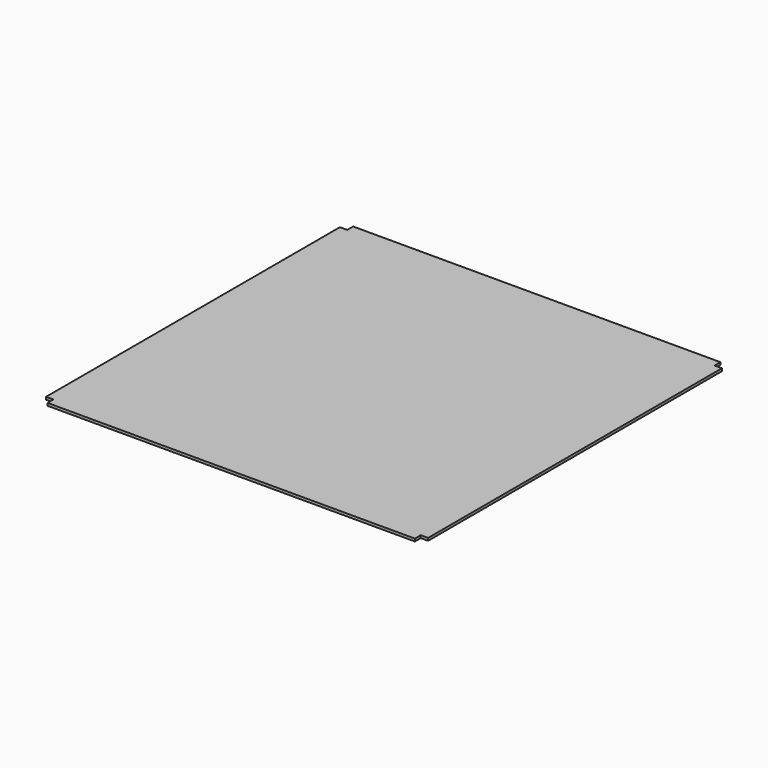
from build123d import *

# Parameters (mm, degrees)
F0_W      = 883.52695
F0_H      = 6
F1_DEPTH  = 883.52695
F2_W      = 17
F2_H      = 17
F3_DEPTH  = 6
F4_W      = 17
F4_H      = 17
F5_DEPTH  = 6
F6_W      = 17
F6_H      = 17
F7_DEPTH  = 6
F8_W      = 17
F8_H      = 17
F9_DEPTH  = 6
F10_R     = 3
F11_DEPTH = 4


with BuildPart() as f1:
    # F0 (on Front) → F1 (new body)
    with BuildSketch(Plane.XZ):
        with Locations((441.763475, 3)):
            Rectangle(F0_W, F0_H)
    extrude(amount=F1_DEPTH)

    # F2 (on face) → F3 (cut)
    with BuildSketch(Plane.XY.offset(6)):
        with Locations((8.5, -8.5)):
            Rectangle(F2_W, F2_H)
    extrude(amount=-F3_DEPTH, mode=Mode.SUBTRACT)

    # F4 (on face) → F5 (cut)
    with BuildSketch(Plane.XY.offset(6)):
        with Locations((875.02695, -8.5)):
            Rectangle(F4_W, F4_H)
    extrude(amount=-F5_DEPTH, mode=Mode.SUBTRACT)

    # F6 (on face) → F7 (cut)
    with BuildSketch(Plane.XY.offset(6)):
        with Locations((875.02695, -875.02695)):
            Rectangle(F6_W, F6_H)
    extrude(amount=-F7_DEPTH, mode=Mode.SUBTRACT)

    # F8 (on face) → F9 (cut)
    with BuildSketch(Plane.XY.offset(6)):
        with Locations((8.5, -875.02695)):
            Rectangle(F8_W, F8_H)
    extrude(amount=-F9_DEPTH, mode=Mode.SUBTRACT)

    # F10 (on face) → F11 (cut)
    with BuildSketch(Plane(origin=(0, 0, 0), x_dir=(1, 0, 0), z_dir=(0, 0, -1))):
        with Locations((28.7346, 28.7346)):
            Circle(F10_R)
    extrude(amount=-F11_DEPTH, mode=Mode.SUBTRACT)


solid = f1.part
